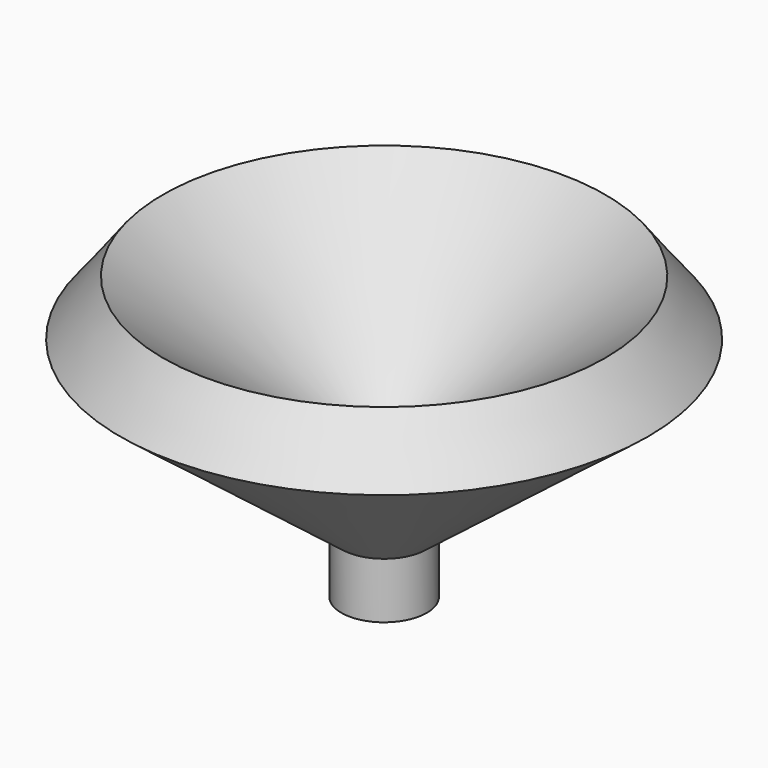
from build123d import *

# Parameters (mm, degrees)
F2_R      = 3.813781
F3_DEPTH  = 38.1
F4_R      = 3.020529
F5_DEPTH  = 14.0716
F3_FACE_R = 3.813781
F6_DEPTH  = 15.24


with BuildPart() as f1:
    # F0 (on Front) → F1 (revolve)
    with BuildSketch(Plane.XZ):
        Polygon((-1.911807, -2.718227), (1.97439, -2.723357), (1.97439, 2.356643), (22.062188, 17.901429), (18.175991, 22.923379), (-1.911807, 7.378592), align=None)
    revolve(axis=Axis((-1.911807, 0, 2.330183), (0, 0, -1)))

    # F2 (on Top) → F3 (cut)
    with BuildSketch(Plane.XY):
        with Locations((-1.898092, 0)):
            Circle(F2_R)
    extrude(amount=F3_DEPTH, mode=Mode.SUBTRACT)

    # F4 (on Top) → F5 (cut)
    with BuildSketch(Plane.XY):
        with Locations((-1.891657, 0)):
            Circle(F4_R)
    extrude(amount=F5_DEPTH, mode=Mode.SUBTRACT)

    # F3_face (on face) → F6 (cut)
    with BuildSketch(Plane(origin=(-1.898092, 0, 0), x_dir=(1, 0, 0), z_dir=(0, 0, 1))):
        Circle(F3_FACE_R)
    extrude(amount=-F6_DEPTH, mode=Mode.SUBTRACT)


solid = f1.part
